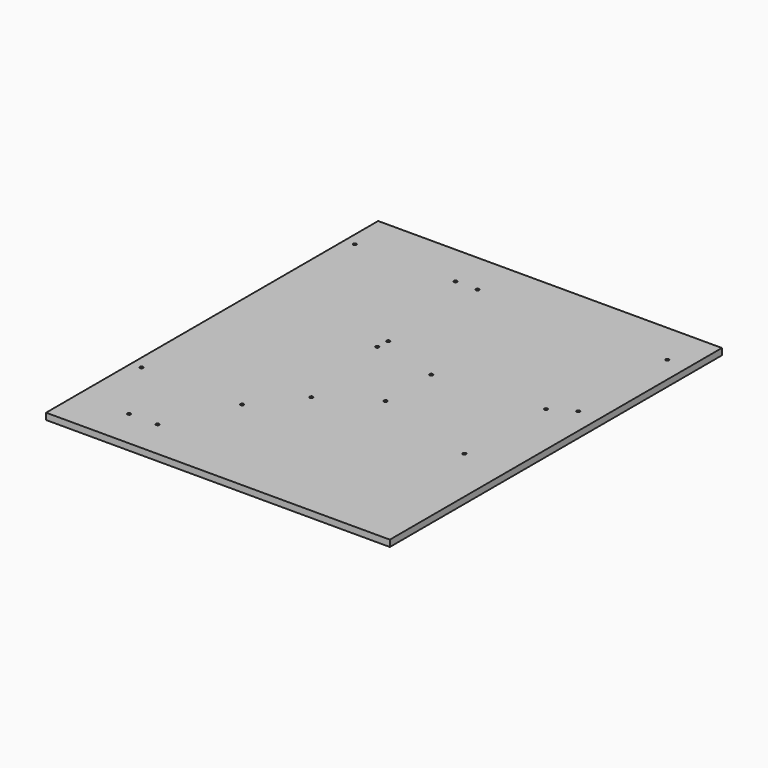
from build123d import *

# Parameters (mm, degrees)
F0_W     = 168.275
F0_H     = 203.2
F2_DEPTH = 3.175
F1_R     = 0.79375
F3_DEPTH = 25.4
F4_R     = 0.79375
F5_DEPTH = 25.4
F6_R     = 0.79375
F7_DEPTH = 25.4
F8_R     = 0.79375
F9_DEPTH = 25.4


with BuildPart() as f2:
    # F0 (on Top) → F2 (new body)
    with BuildSketch(Plane.XY):
        with Locations((84.1375, 101.6)):
            Rectangle(F0_W, F0_H)
    extrude(amount=-F2_DEPTH)

    # F1 (on Top) → F3 (cut)
    with BuildSketch(Plane.XY):
        with Locations((71.1962, 73.3552)):
            Circle(F1_R)
        with Locations((64.8462, 121.6152)):
            Circle(F1_R)
        with Locations((95.3262, 116.5352)):
            Circle(F1_R)
        with Locations((146.1262, 73.3552)):
            Circle(F1_R)
        with Locations((147.3962, 121.6152)):
            Circle(F1_R)
        with Locations((95.3262, 88.5952)):
            Circle(F1_R)
    extrude(amount=-F3_DEPTH, mode=Mode.SUBTRACT)

    # F4 (on Top) → F5 (cut)
    with BuildSketch(Plane.XY):
        with Locations((65.151, 127.9652)):
            Circle(F4_R)
        with Locations((158.115, 127.9652)):
            Circle(F4_R)
        with Locations((158.115, 182.5752)):
            Circle(F4_R)
        with Locations((65.151, 182.5752)):
            Circle(F4_R)
    extrude(amount=-F5_DEPTH, mode=Mode.SUBTRACT)

    # F6 (on Top) → F7 (cut)
    with BuildSketch(Plane.XY):
        with Locations((5.08, 52.07)):
            Circle(F6_R)
        with Locations((54.3306, 52.07)):
            Circle(F6_R)
        with Locations((54.3306, 182.5752)):
            Circle(F6_R)
        with Locations((5.08, 182.5752)):
            Circle(F6_R)
    extrude(amount=-F7_DEPTH, mode=Mode.SUBTRACT)

    # F8 (on Top) → F9 (cut)
    with BuildSketch(Plane.XY):
        with Locations((25.4, 19.05)):
            Circle(F8_R)
        with Locations((39.3192, 19.05)):
            Circle(F8_R)
    extrude(amount=-F9_DEPTH, mode=Mode.SUBTRACT)


solid = f2.part
